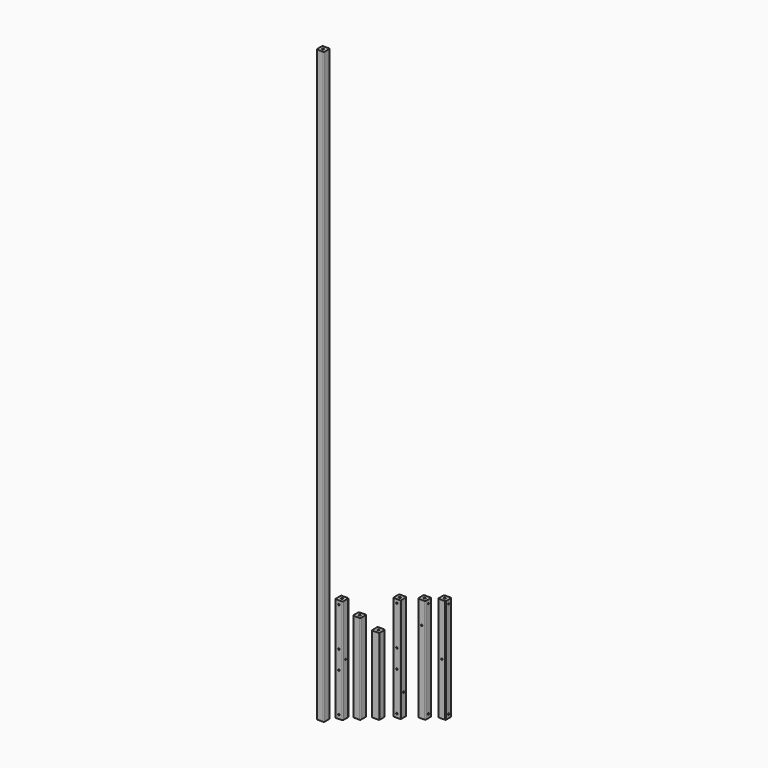
from build123d import *

# Parameters (mm, degrees)
F0_R      = 3.175
F1_DEPTH  = 2006.6
F2_R      = 3.175
F3_DEPTH  = 355.6
F4_R      = 3.175
F5_DEPTH  = 304.8
F6_R      = 3.175
F7_DEPTH  = 260.35
F8_R      = 3.175
F9_DEPTH  = 355.6
F10_R     = 2.54
F11_DEPTH = 25.4
F12_R     = 2.54
F13_DEPTH = 25.4
F14_R     = 2.54
F15_DEPTH = 25.4
F16_R     = 2.54
F17_DEPTH = 25.4
F18_R     = 3.175
F19_DEPTH = 355.6
F20_R     = 3.175
F21_DEPTH = 355.6
F22_R     = 2.54
F23_DEPTH = 25.4
F24_R     = 2.54
F25_DEPTH = 25.4
F26_R     = 2.54
F27_DEPTH = 25.4
F28_R     = 2.54
F29_DEPTH = 25.4


with BuildPart() as f1:
    # F0 (on Top) → F1 (new body)
    with BuildSketch(Plane.XY):
        with BuildLine():
            ThreePointArc((-77.539464, 28.595028), (-78.283413, 30.391079), (-80.079464, 31.135028))
            Line((-80.079464, 31.135028), (-100.399464, 31.135028))
            ThreePointArc((-100.399464, 31.135028), (-102.195515, 30.391079), (-102.939464, 28.595028))
            Line((-102.939464, 28.595028), (-102.939464, 8.275028))
            ThreePointArc((-102.939464, 8.275028), (-102.195515, 6.478977), (-100.399464, 5.735028))
            Line((-100.399464, 5.735028), (-80.079464, 5.735028))
            ThreePointArc((-80.079464, 5.735028), (-78.283413, 6.478977), (-77.539464, 8.275028))
            Line((-77.539464, 8.275028), (-77.539464, 28.595028))
        make_face()
        with Locations((-90.239464, 18.435028)):
            Circle(F0_R, mode=Mode.SUBTRACT)
    extrude(amount=F1_DEPTH)


with BuildPart() as f3:
    # F2 (on Top) → F3 (new body)
    with BuildSketch(Plane.XY):
        with BuildLine():
            ThreePointArc((-44.627606, 67.166523), (-45.371555, 68.962574), (-47.167606, 69.706523))
            Line((-47.167606, 69.706523), (-67.487606, 69.706523))
            ThreePointArc((-67.487606, 69.706523), (-69.283657, 68.962574), (-70.027606, 67.166523))
            Line((-70.027606, 67.166523), (-70.027606, 46.846523))
            ThreePointArc((-70.027606, 46.846523), (-69.283657, 45.050472), (-67.487606, 44.306523))
            Line((-67.487606, 44.306523), (-47.167606, 44.306523))
            ThreePointArc((-47.167606, 44.306523), (-45.371555, 45.050472), (-44.627606, 46.846523))
            Line((-44.627606, 46.846523), (-44.627606, 67.166523))
        make_face()
        with Locations((-57.327606, 57.006523)):
            Circle(F2_R, mode=Mode.SUBTRACT)
    extrude(amount=F3_DEPTH)

    # F14 (on face) → F15 (cut)
    with BuildSketch(Plane.XZ.offset(-44.306523)):
        with Locations((-57.327606, 342.9)):
            Circle(F14_R)
        with Locations((-57.327606, 146.05)):
            Circle(F14_R)
        with Locations((-57.327606, 209.55)):
            Circle(F14_R)
        with Locations((-57.327606, 12.7)):
            Circle(F14_R)
    extrude(amount=-F15_DEPTH, mode=Mode.SUBTRACT)

    # F16 (on face) → F17 (cut)
    with BuildSketch(Plane.YZ.offset(-44.627606)):
        with Locations((57.006523, 177.8)):
            Circle(F16_R)
    extrude(amount=-F17_DEPTH, mode=Mode.SUBTRACT)


with BuildPart() as f5:
    # F4 (on Top) → F5 (new body)
    with BuildSketch(Plane.XY):
        with BuildLine():
            ThreePointArc((-9.384411, 98.298007), (-10.12836, 100.094058), (-11.924411, 100.838007))
            Line((-11.924411, 100.838007), (-32.244411, 100.838007))
            ThreePointArc((-32.244411, 100.838007), (-34.040462, 100.094058), (-34.784411, 98.298007))
            Line((-34.784411, 98.298007), (-34.784411, 77.978007))
            ThreePointArc((-34.784411, 77.978007), (-34.040462, 76.181955), (-32.244411, 75.438007))
            Line((-32.244411, 75.438007), (-11.924411, 75.438007))
            ThreePointArc((-11.924411, 75.438007), (-10.12836, 76.181955), (-9.384411, 77.978007))
            Line((-9.384411, 77.978007), (-9.384411, 98.298007))
        make_face()
        with Locations((-22.084411, 88.138007)):
            Circle(F4_R, mode=Mode.SUBTRACT)
    extrude(amount=F5_DEPTH)


with BuildPart() as f7:
    # F6 (on Top) → F7 (new body)
    with BuildSketch(Plane.XY):
        with BuildLine():
            ThreePointArc((29.676783, 129.429498), (28.932834, 131.225549), (27.136783, 131.969498))
            Line((27.136783, 131.969498), (6.816783, 131.969498))
            ThreePointArc((6.816783, 131.969498), (5.020732, 131.225549), (4.276783, 129.429498))
            Line((4.276783, 129.429498), (4.276783, 109.109498))
            ThreePointArc((4.276783, 109.109498), (5.020732, 107.313446), (6.816783, 106.569498))
            Line((6.816783, 106.569498), (27.136783, 106.569498))
            ThreePointArc((27.136783, 106.569498), (28.932834, 107.313446), (29.676783, 109.109498))
            Line((29.676783, 109.109498), (29.676783, 129.429498))
        make_face()
        with Locations((16.976783, 119.269498)):
            Circle(F6_R, mode=Mode.SUBTRACT)
    extrude(amount=F7_DEPTH)


with BuildPart() as f9:
    # F8 (on Top) → F9 (new body)
    with BuildSketch(Plane.XY):
        with BuildLine():
            ThreePointArc((71.263638, 168.821753), (70.51969, 170.617804), (68.723638, 171.361753))
            Line((68.723638, 171.361753), (48.403638, 171.361753))
            ThreePointArc((48.403638, 171.361753), (46.607587, 170.617804), (45.863638, 168.821753))
            Line((45.863638, 168.821753), (45.863638, 148.501753))
            ThreePointArc((45.863638, 148.501753), (46.607587, 146.705702), (48.403638, 145.961753))
            Line((48.403638, 145.961753), (68.723638, 145.961753))
            ThreePointArc((68.723638, 145.961753), (70.51969, 146.705702), (71.263638, 148.501753))
            Line((71.263638, 148.501753), (71.263638, 168.821753))
        make_face()
        with Locations((58.563638, 158.661753)):
            Circle(F8_R, mode=Mode.SUBTRACT)
    extrude(amount=F9_DEPTH)

    # F10 (on face) → F11 (cut)
    with BuildSketch(Plane.YZ.offset(71.263638)):
        with Locations((158.661753, 76.2)):
            Circle(F10_R)
    extrude(amount=-F11_DEPTH, mode=Mode.SUBTRACT)

    # F12 (on face) → F13 (cut)
    with BuildSketch(Plane.XZ.offset(-145.961753)):
        with Locations((58.563638, 209.55)):
            Circle(F12_R)
        with Locations((58.563638, 146.05)):
            Circle(F12_R)
        with Locations((58.563638, 12.7)):
            Circle(F12_R)
        with Locations((58.563638, 342.9)):
            Circle(F12_R)
    extrude(amount=-F13_DEPTH, mode=Mode.SUBTRACT)


with BuildPart() as f19:
    # F18 (on Top) → F19 (new body)
    with BuildSketch(Plane.XY):
        with BuildLine():
            ThreePointArc((125.182719, 206.516311), (124.43877, 208.312363), (122.642719, 209.056311))
            Line((122.642719, 209.056311), (102.322719, 209.056311))
            ThreePointArc((102.322719, 209.056311), (100.526668, 208.312363), (99.782719, 206.516311))
            Line((99.782719, 206.516311), (99.782719, 186.196311))
            ThreePointArc((99.782719, 186.196311), (100.526668, 184.40026), (102.322719, 183.656311))
            Line((102.322719, 183.656311), (122.642719, 183.656311))
            ThreePointArc((122.642719, 183.656311), (124.43877, 184.40026), (125.182719, 186.196311))
            Line((125.182719, 186.196311), (125.182719, 206.516311))
        make_face()
        with Locations((112.482719, 196.356311)):
            Circle(F18_R, mode=Mode.SUBTRACT)
    extrude(amount=F19_DEPTH)

    # F22 (on face) → F23 (cut)
    with BuildSketch(Plane.XZ.offset(-183.656311)):
        with Locations((112.482719, 279.4)):
            Circle(F22_R)
    extrude(amount=-F23_DEPTH, mode=Mode.SUBTRACT)

    # F24 (on face) → F25 (cut)
    with BuildSketch(Plane.YZ.offset(125.182719)):
        with Locations((196.356311, 12.7)):
            Circle(F24_R)
        with Locations((196.356311, 342.9)):
            Circle(F24_R)
    extrude(amount=-F25_DEPTH, mode=Mode.SUBTRACT)


with BuildPart() as f21:
    # F20 (on Top) → F21 (new body)
    with BuildSketch(Plane.XY):
        with BuildLine():
            ThreePointArc((167.416015, 239.713849), (166.672066, 241.5099), (164.876015, 242.253849))
            Line((164.876015, 242.253849), (144.556015, 242.253849))
            ThreePointArc((144.556015, 242.253849), (142.759964, 241.5099), (142.016015, 239.713849))
            Line((142.016015, 239.713849), (142.016015, 219.393849))
            ThreePointArc((142.016015, 219.393849), (142.759964, 217.597797), (144.556015, 216.853849))
            Line((144.556015, 216.853849), (164.876015, 216.853849))
            ThreePointArc((164.876015, 216.853849), (166.672066, 217.597797), (167.416015, 219.393849))
            Line((167.416015, 219.393849), (167.416015, 239.713849))
        make_face()
        with Locations((154.716015, 229.553849)):
            Circle(F20_R, mode=Mode.SUBTRACT)
    extrude(amount=F21_DEPTH)

    # F26 (on face) → F27 (cut)
    with BuildSketch(Plane.YZ.offset(167.416015)):
        with Locations((229.553849, 12.7)):
            Circle(F26_R)
        with Locations((229.553849, 342.9)):
            Circle(F26_R)
    extrude(amount=-F27_DEPTH, mode=Mode.SUBTRACT)

    # F28 (on face) → F29 (cut)
    with BuildSketch(Plane.XZ.offset(-216.853849)):
        with Locations((154.716015, 177.8)):
            Circle(F28_R)
    extrude(amount=-F29_DEPTH, mode=Mode.SUBTRACT)


solid = Compound([f1.part, f3.part, f5.part, f7.part, f9.part, f19.part, f21.part])
